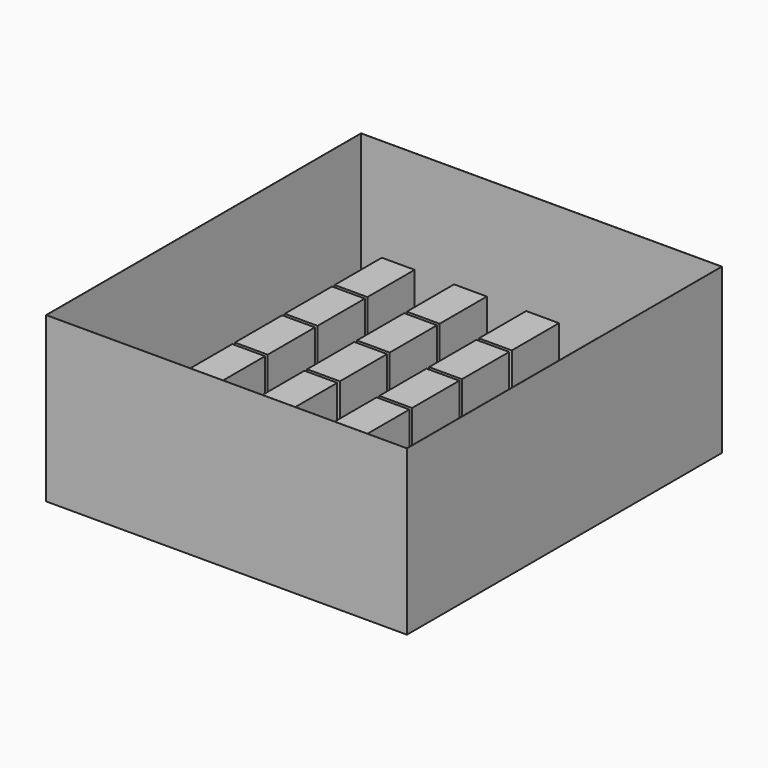
from build123d import *

# Parameters (mm, degrees)
F0_W     = 5500
F0_H     = 6000
F1_DEPTH = 2500
F2_T     = -1.5
F3_W     = 500
F3_H     = 900
F4_DEPTH = 1000


with BuildPart() as f1:
    # F0 (on Top) → F1 (new body)
    with BuildSketch(Plane.XY):
        with Locations((2750, 3000)):
            Rectangle(F0_W, F0_H)
    extrude(amount=F1_DEPTH)

    # F2
    f2_openings = [f1.faces().sort_by_distance(p)[0] for p in [
        (2750, 3000, 2500),
    ]]
    offset(amount=F2_T, openings=f2_openings)

    # F3 (on face) → F4 (join)
    with BuildSketch(Plane.XY.offset(1.5)):
        with Locations((5048.5, 5448.5)):
            Rectangle(F3_W, F3_H)
        with Locations((5048.5, 4498.5)):
            Rectangle(F3_W, F3_H)
        with Locations((5048.5, 3548.5)):
            Rectangle(F3_W, F3_H)
        with Locations((5048.5, 2598.5)):
            Rectangle(F3_W, F3_H)
        with Locations((3948.5, 5448.5)):
            Rectangle(F3_W, F3_H)
        with Locations((3948.5, 4498.5)):
            Rectangle(F3_W, F3_H)
        with Locations((3948.5, 3548.5)):
            Rectangle(F3_W, F3_H)
        with Locations((3948.5, 2598.5)):
            Rectangle(F3_W, F3_H)
        with Locations((2848.5, 5448.5)):
            Rectangle(F3_W, F3_H)
        with Locations((2848.5, 4498.5)):
            Rectangle(F3_W, F3_H)
        with Locations((2848.5, 3548.5)):
            Rectangle(F3_W, F3_H)
        with Locations((2848.5, 2598.5)):
            Rectangle(F3_W, F3_H)
        with Locations((1748.5, 5448.5)):
            Rectangle(F3_W, F3_H)
        with Locations((1748.5, 4498.5)):
            Rectangle(F3_W, F3_H)
        with Locations((1748.5, 3548.5)):
            Rectangle(F3_W, F3_H)
        with Locations((1748.5, 2598.5)):
            Rectangle(F3_W, F3_H)
        with Locations((648.5, 5448.5)):
            Rectangle(F3_W, F3_H)
        with Locations((648.5, 4498.5)):
            Rectangle(F3_W, F3_H)
        with Locations((648.5, 3548.5)):
            Rectangle(F3_W, F3_H)
        with Locations((648.5, 2598.5)):
            Rectangle(F3_W, F3_H)
    extrude(amount=F4_DEPTH)


solid = f1.part
